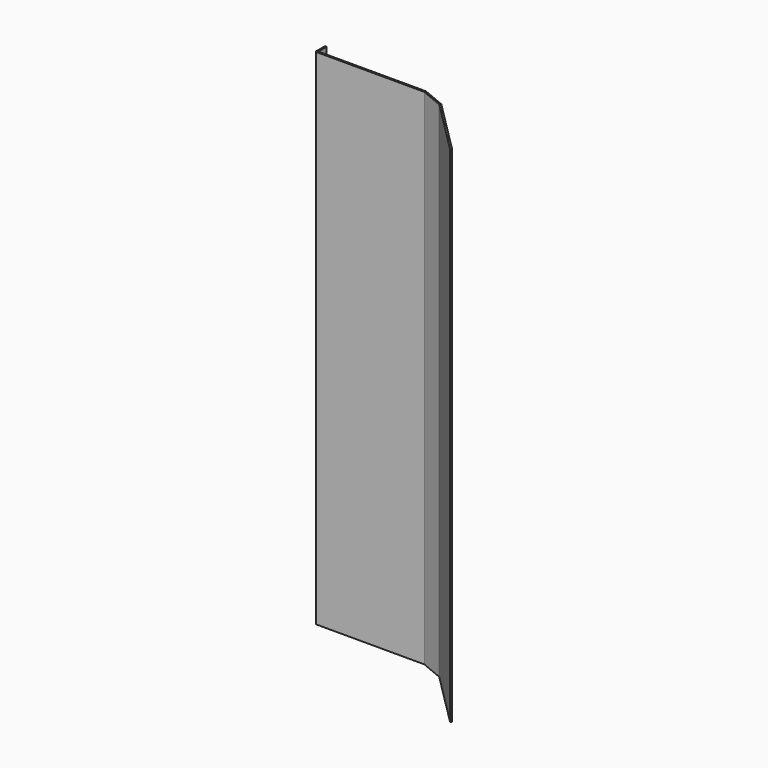
from build123d import *

# Parameters (mm, degrees)
F1_DEPTH = 1250


with BuildPart() as f1:
    # F0 (on Top) → F1 (new body)
    with BuildSketch(Plane.XY):
        with BuildLine():
            ThreePointArc((0, 2), (0.585786, 0.585786), (2, 0))
            Line((2, 0), (270, 0))
            Line((270, 0), (325.432772, -22.961006))
            Line((325.432772, -22.961006), (459.78306, -157.311294))
            Line((459.78306, -157.311294), (462.611488, -154.482867))
            Line((462.611488, -154.482867), (327.69859, -19.56997))
            Line((327.69859, -19.56997), (270.795649, 4))
            Line((270.795649, 4), (6, 4))
            ThreePointArc((6, 4), (4.585786, 4.585786), (4, 6))
            Line((4, 6), (4, 30))
            Line((4, 30), (0, 30))
            Line((0, 30), (0, 2))
        make_face()
    extrude(amount=F1_DEPTH)


solid = f1.part
